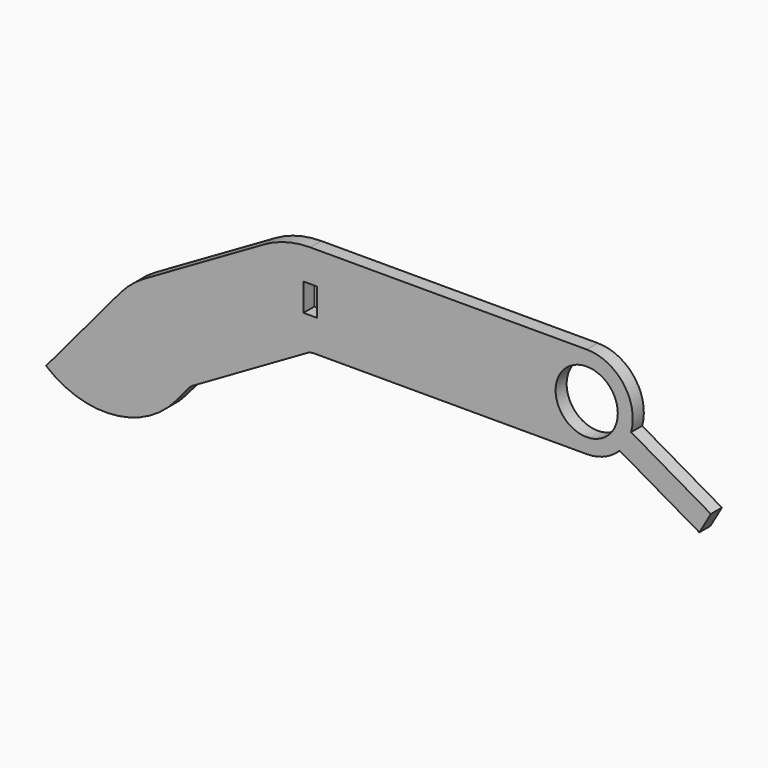
from build123d import *

# Parameters (mm, degrees)
F0_W     = 3
F0_H     = 6
F0_R     = 6.75
F1_DEPTH = 3
F2_R     = 3


with BuildPart() as f1:
    # F0 (on Front) → F1 (new body)
    with BuildSketch(Plane.XZ):
        with BuildLine():
            Line((-30, -10), (30, -10))
            ThreePointArc((30, -10), (33.868919, -9.221251), (37.135255, -7.006293))
            Line((37.135255, -7.006293), (54.455763, -17.006293))
            Line((54.455763, -17.006293), (56.955763, -12.676166))
            Line((56.955763, -12.676166), (39.635255, -2.676166))
            ThreePointArc((39.635255, -2.676166), (37.961208, 6.051378), (30, 10))
            Line((30, 10), (-30, 10))
            ThreePointArc((-30, 10), (-35.176381, 9.318517), (-40, 7.320508))
            Line((-40, 7.320508), (-65.980762, -7.679492))
            ThreePointArc((-65.980762, -7.679492), (-68.836514, -9.679111), (-71.301651, -12.144248))
            Line((-71.301651, -12.144248), (-87.371341, -31.295359))
            ThreePointArc((-87.371341, -31.295359), (-72.772474, -35.898364), (-59.1947, -28.830222))
            Line((-59.1947, -28.830222), (-55.980762, -25))
            Line((-55.980762, -25), (-30, -10))
        make_face()
        with Locations((-30, 0)):
            Rectangle(F0_W, F0_H, mode=Mode.SUBTRACT)
        with Locations((30, 0)):
            Circle(F0_R, mode=Mode.SUBTRACT)
    extrude(amount=F1_DEPTH)

    # F2
    f2_edges = [f1.edges().sort_by_distance(p)[0] for p in [
        (-30, -1.5, -10),
        (-55.980762, -1.5, -25),
    ]]
    fillet(f2_edges, radius=F2_R)


solid = f1.part
